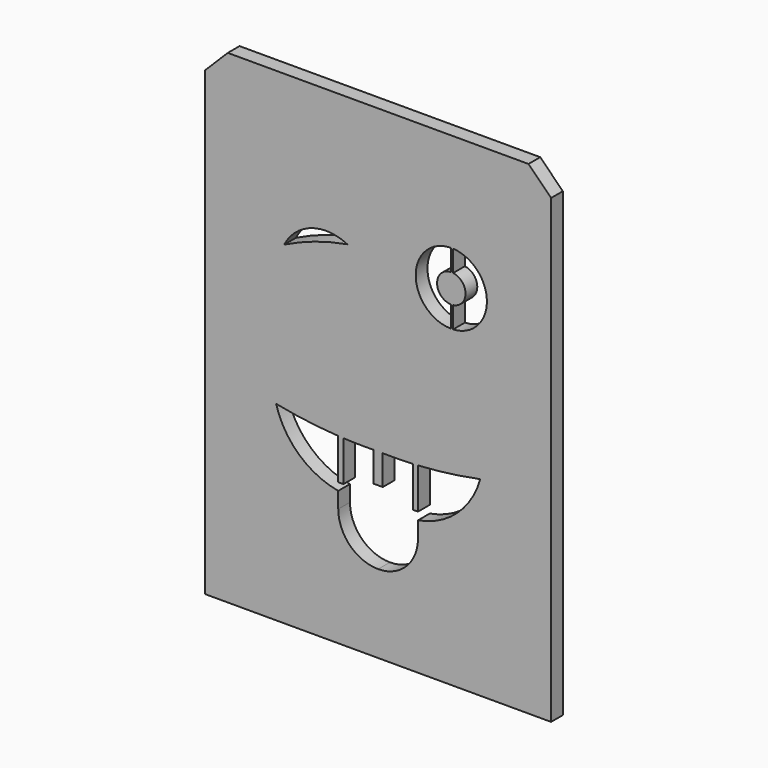
from build123d import *

# Parameters (mm, degrees)
F0_W     = 77.724
F0_H     = 108.712
F1_DEPTH = 3.302
F3_R     = 13.3445871966
F4_DEPTH = 3.302
F5_SIZE  = 5.08
F7_DEPTH = 3.303


with BuildPart() as f1:
    # F0 (on Front) → F1 (new body)
    with BuildSketch(Plane.XZ):
        Rectangle(F0_W, F0_H)
    extrude(amount=F1_DEPTH)

    # F3 (on face) → F4 (join)
    with BuildSketch(Plane.XZ.offset(3.302)):
        with BuildLine():
            add(Edge.make_bspline(
                [(-33.1284857231, -24.3833554431), (-30.3980902484, -23.448268281), (-27.6625298974, -23.0135580616), (-24.9168122419, -22.8877504962)],
                knots=[0.0236239796, 0.0236239796, 0.0236239796, 0.0236239796, 0.1438563975, 0.1438563975, 0.1438563975, 0.1438563975], degree=3))
            ThreePointArc((-33.1284857231, -24.3833554431), (-29.1410849834, -38.4326879001), (-15.8749999992, -44.5395771521))
            ThreePointArc((-15.8749999992, -44.5395771521), (-7.7803065213, -45.3411097626), (9e-10, -47.7145771515))
            ThreePointArc((9e-10, -47.7145771515), (7.780306523, -45.3411097624), (15.8750000008, -44.5395771515))
            ThreePointArc((15.8750000008, -44.5395771515), (28.9710149024, -38.6284104056), (33.2008619827, -24.8968448621))
            add(Edge.make_bspline(
                [(22.7832318895, -28.264905571), (26.870414184, -28.3483991479), (30.7081117423, -27.7740633769), (33.2008619827, -24.8968448621)],
                knots=[0.8224951004, 0.8224951004, 0.8224951004, 0.8224951004, 0.9908039431, 0.9908039431, 0.9908039431, 0.9908039431], degree=3))
            add(Edge.make_bspline(
                [(15.9953683619, -27.7933645546), (16.7598950609, -27.862629463), (19.0104314318, -28.0581684328), (21.3052242348, -28.2347126075), (22.7832318895, -28.264905571)],
                knots=[0.7300371536, 0.7300371536, 0.7300371536, 0.7300371536, 0.7616312241, 0.8224951004, 0.8224951004, 0.8224951004, 0.8224951004], degree=3))
            add(Edge.make_bspline(
                [(12.0445173218, -27.4086319137), (13.3501324037, -27.5450763369), (14.6659309282, -27.6729196282), (15.9953683619, -27.7933645546)],
                knots=[0.6750981435, 0.6750981435, 0.6750981435, 0.6750981435, 0.7300371536, 0.7300371536, 0.7300371536, 0.7300371536], degree=3))
            add(Edge.make_bspline(
                [(6.5035843618, -26.7679947406), (8.3365045469, -27.0014140297), (10.1801283043, -27.2137923413), (12.0445173218, -27.4086319137)],
                knots=[0.5966464709, 0.5966464709, 0.5966464709, 0.5966464709, 0.6750981435, 0.6750981435, 0.6750981435, 0.6750981435], degree=3))
            add(Edge.make_bspline(
                [(-15.7821923495, -23.3437299796), (-10.5480047667, -23.9624284424), (-3.1004870846, -25.4363431139), (4.3262408996, -26.490713729), (6.5035843618, -26.7679947406)],
                knots=[0.2765511336, 0.2765511336, 0.2765511336, 0.2765511336, 0.5034529768, 0.5966464709, 0.5966464709, 0.5966464709, 0.5966464709], degree=3))
            add(Edge.make_bspline(
                [(-24.9168122419, -22.8877504962), (-22.5127229742, -22.777596192), (-19.4725911361, -22.9372512735), (-16.4147628171, -23.2689580365), (-15.7821923495, -23.3437299796)],
                knots=[0.1438563975, 0.1438563975, 0.1438563975, 0.1438563975, 0.2491292266, 0.2765511336, 0.2765511336, 0.2765511336, 0.2765511336], degree=3))
        make_face()
        with BuildLine():
            ThreePointArc((-24.3962783332, -9.4429305632), (-23.5493439512, -16.2082072875), (-24.9168122419, -22.8877504962))
            add(Edge.make_bspline(
                [(-24.9168122419, -22.8877504962), (-22.5127229742, -22.777596192), (-19.4725911361, -22.9372512735), (-16.4147628171, -23.2689580365), (-15.7821923495, -23.3437299796)],
                knots=[0.1438563975, 0.1438563975, 0.1438563975, 0.1438563975, 0.2491292266, 0.2765511336, 0.2765511336, 0.2765511336, 0.2765511336], degree=3))
            ThreePointArc((-15.7821923495, -23.3437299796), (-16.7909764629, -16.1431204561), (-15.7821923495, -8.9425109327))
            add(Edge.make_bspline(
                [(-20.8150930703, 3.0249084812), (-20.084698855, 3.2617064252), (-18.5750809579, 3.7511331524), (-20.1108934357, 5.7423249077), (-21.3989497629, 8.4805039988), (-19.5926222129, 8.6232034417), (-20.0960081308, 6.4882204736), (-17.9845367, 4.4717269755), (-19.4827279307, 7.4877563676), (-17.6531933794, 7.9935220173), (-17.6518746238, 3.7165445405), (-19.7201607312, 2.5442912986), (-19.0033211234, 0.5113026434), (-21.5358089244, 0.646088536), (-20.7796208818, -5.7027505195), (-14.9489180074, 0.0978196974), (-17.977030073, 1.5236381763), (-14.9168721562, 2.6666255778), (-16.1211586732, 6.3598723413), (-13.8328776174, 5.6005762962), (-15.1421128769, 3.3154322822), (-14.4747759607, 0.1624480587), (-13.8084140261, 5.1188240441), (-11.0343102947, 2.7331078221), (-14.5615723999, -0.162479085), (-17.3031216925, -3.3366762112), (-18.0975664008, -8.8898410691), (-13.4356882131, -5.5746333853), (-15.3648709473, -3.8082111356), (-12.0527139611, -3.6659211986), (-13.248535603, -1.079337143), (-9.5910344453, -1.7447413323), (-10.7422685487, 3.0079941618), (-8.9849464366, -1.96339633), (-8.8102943074, 5.4988116301), (-7.4861779197, -0.6957485248), (-9.6724060403, -0.966318494), (-11.0218385517, -3.5291741027), (-13.7004320012, -4.2797101397), (-12.8029593717, -6.9381020727), (-14.7089673153, -8.2196946287), (-15.7821923495, -8.9425109327)],
                knots=[0, 0, 0, 0, 0.0231511603, 0.0478500744, 0.0752755755, 0.0903366321, 0.1142638791, 0.1352244444, 0.1593040946, 0.1744947233, 0.2060790631, 0.2315955315, 0.2516703156, 0.2733460952, 0.3049833457, 0.3431527772, 0.3650886659, 0.3896180862, 0.4183185893, 0.4354180503, 0.4626318971, 0.4841465121, 0.512674348, 0.5346264378, 0.5675595767, 0.6056671213, 0.6368592747, 0.6681518224, 0.6879987795, 0.7121233264, 0.7334743783, 0.7591560932, 0.7848708559, 0.8073025156, 0.8374341523, 0.8673194844, 0.8904493251, 0.9187369989, 0.9444600919, 0.9686867066, 1, 1, 1, 1], degree=3))
            add(Edge.make_bspline(
                [(-25.8914344013, -2.4853385985), (-26.396572956, -2.0003344615), (-27.3138435109, -1.1196261405), (-29.1352849859, -2.0598979002), (-28.7106271057, 0.8204026064), (-32.0312644098, -1.1715068103), (-31.3002695814, 3.7485837155), (-29.4483178555, 3.8301118075), (-30.8071023081, 1.5653871303), (-28.9526334159, 1.3619840648), (-29.4792210737, 5.2085047756), (-26.921055424, 4.4342075194), (-28.8119762327, 2.2854028303), (-27.5906596289, -1.3990701213), (-27.7699356497, 3.0747016102), (-25.2099586785, 2.6066763518), (-26.5953437573, -0.395391095), (-23.7025988652, -2.0340069969), (-23.1772681034, -6.0499515041), (-20.5435134821, -4.1808959475), (-25.0748704565, 2.6489737746), (-20.1368344266, 0.7949418705), (-20.6048167244, 2.3336418411), (-20.8150930703, 3.0249084812)],
                knots=[0, 0, 0, 0, 0.0457250435, 0.0830311605, 0.1245988121, 0.1705511092, 0.2321726775, 0.2625557415, 0.30723362, 0.3358214151, 0.393012377, 0.4286583434, 0.4808472993, 0.5282384525, 0.5813000538, 0.6192860311, 0.6705302416, 0.7286736986, 0.7872738172, 0.8280557864, 0.9074882994, 0.958434574, 1, 1, 1, 1], degree=3))
            ThreePointArc((-25.8914344013, -2.4853385985), (-24.9290967698, -4.9824855111), (-24.3962783332, -7.6050683856))
            add(Edge.make_bspline(
                [(-24.3962783332, -9.4429305632), (-25.4357243907, -10.1342055857), (-27.412273175, -11.4486922391), (-27.4547789496, -7.4214675852), (-30.5466070306, -9.5733915774), (-30.4542370334, -5.4520792207), (-32.3177618611, -5.8417990903), (-32.7140680164, -4.2769830225), (-32.0543630337, -2.7007935171), (-32.1251676799, -4.5533058245), (-30.3843482976, -5.4648837492), (-32.0501040037, -1.6640768267), (-30.4436660674, -1.9005229869), (-30.1720801803, -6.5942041642), (-29.7456686663, -3.178537531), (-28.1334595609, -3.5814958653), (-29.8697325683, -5.6494579394), (-29.5018476184, -7.7306733995), (-27.2359049314, -6.3250302911), (-26.4788550338, -9.3239236743), (-25.0993332141, -8.1853413666), (-24.3962783332, -7.6050683856)],
                knots=[0, 0, 0, 0, 0.0670169121, 0.1274354192, 0.1840138636, 0.2505621343, 0.2960523516, 0.3441354147, 0.3840734056, 0.4287810373, 0.4665753725, 0.5348972739, 0.5667760176, 0.6369485958, 0.6883070256, 0.7231632661, 0.7842390879, 0.8324575559, 0.8851485442, 0.9414679355, 1, 1, 1, 1], degree=3))
        make_face()
        with BuildLine():
            add(Edge.make_bspline(
                [(-20.2924981713, -15.781018883), (-20.5370775999, -16.1379246214), (-20.134132622, -17.1534868603), (-20.8639151565, -18.5661521393), (-21.9358468203, -19.4575377926), (-22.3700864307, -21.8865095148), (-20.237349518, -21.5763362209), (-19.5672362136, -20.438180371), (-19.2965010699, -18.8033454883), (-19.7803037906, -17.8720601229), (-19.908738804, -16.4540465799), (-19.0188083322, -15.0649598827), (-20.0853771822, -15.4787748635), (-20.2924981713, -15.781018883)],
                knots=[0, 0, 0, 0, 0.0904118203, 0.1854248684, 0.2814922978, 0.3865094541, 0.4809925493, 0.5711470892, 0.6690619631, 0.748512495, 0.8439845899, 0.9234351565, 1, 1, 1, 1], degree=3))
        make_face(mode=Mode.SUBTRACT)
        with BuildLine():
            add(Edge.make_bspline(
                [(-22.3910957575, -11.5529615432), (-22.0568118654, -12.2037220004), (-21.1170784891, -12.8832887919), (-21.7129777335, -14.1967346716), (-20.5379115522, -14.568750962), (-20.4867607869, -13.5076873001), (-20.8432701563, -11.8831681267), (-21.6439811905, -11.2404808042), (-22.9718655512, -9.3501247732), (-22.6978835435, -10.9557285785), (-22.3910957575, -11.5529615432)],
                knots=[0, 0, 0, 0, 0.1505340204, 0.2658311351, 0.3614801071, 0.4617187858, 0.6051372816, 0.7298931385, 0.8618479683, 1, 1, 1, 1], degree=3))
        make_face(mode=Mode.SUBTRACT)
        with BuildLine():
            add(Edge.make_bspline(
                [(-18.3790698647, -10.1024601609), (-18.7969421772, -10.2564427963), (-19.1553590595, -11.577398565), (-19.219348267, -12.6506630096), (-19.2408550579, -13.9350019391), (-18.8743899715, -14.8858473731), (-18.2833235222, -14.0155234153), (-18.1315989973, -13.0706647968), (-18.7065283271, -12.3462231403), (-18.4694817034, -11.2210464666), (-17.1590443019, -10.374237249), (-18.0760721444, -9.9908079022), (-18.3790698647, -10.1024601609)],
                knots=[0, 0, 0, 0, 0.1240572212, 0.2333232805, 0.347818092, 0.428679644, 0.5131510602, 0.6107152668, 0.7012679009, 0.8047604962, 0.9100465523, 1, 1, 1, 1], degree=3))
        make_face(mode=Mode.SUBTRACT)
        with BuildLine():
            ThreePointArc((5.4403450859, -12.5461180708), (6.6092683485, -19.609411059), (6.5035843618, -26.7679947406))
            add(Edge.make_bspline(
                [(6.5035843618, -26.7679947406), (8.3365045469, -27.0014140297), (10.1801283043, -27.2137923413), (12.0445173218, -27.4086319137)],
                knots=[0.5966464709, 0.5966464709, 0.5966464709, 0.5966464709, 0.6750981435, 0.6750981435, 0.6750981435, 0.6750981435], degree=3))
            Line((12.0445173218, -27.4086319137), (12.0445173218, -21.4756764472))
            ThreePointArc((12.0445173218, -21.4756764472), (14.0199428419, -19.5002509271), (15.9953683619, -21.4756764472))
            Line((15.9953683619, -21.4756764472), (15.9953683619, -27.7933645546))
            add(Edge.make_bspline(
                [(15.9953683619, -27.7933645546), (16.7598950609, -27.862629463), (19.0104314318, -28.0581684328), (21.3052242348, -28.2347126075), (22.7832318895, -28.264905571)],
                knots=[0.7300371536, 0.7300371536, 0.7300371536, 0.7300371536, 0.7616312241, 0.8224951004, 0.8224951004, 0.8224951004, 0.8224951004], degree=3))
            ThreePointArc((22.7832318895, -28.264905571), (22.4736636829, -20.3696155623), (23.5801553445, -12.5461180708))
            Line((23.5801553445, -12.5461180708), (28.4554600831, -13.4531514135))
            ThreePointArc((28.4554600831, -13.4531514135), (31.673336573, -11.9989868814), (31.424967593, -8.4765393743))
            ThreePointArc((31.424967593, -8.4765393743), (29.2529740879, -8.2440657168), (29.0205004305, -10.4160592219))
            ThreePointArc((29.0205004305, -10.4160592219), (29.058069024, -11.9208265797), (27.614886003, -12.3485636115))
            ThreePointArc((27.614886003, -12.3485636115), (23.4712314741, -5.8636115848), (28.4554600831, 0))
            ThreePointArc((28.4554600831, 0), (23.3706331923, -0.6006945639), (18.2612345592, -0.9328753515))
            Line((18.2612345592, -0.9328753515), (21.109645709, 8.6648291047))
            Line((21.109645709, 8.6648291047), (22.7452469365, 8.179414619))
            ThreePointArc((22.7452469365, 8.179414619), (24.0675287583, 9.9087492795), (21.9295363303, 9.4988517773))
            ThreePointArc((21.9295363303, 9.4988517773), (17.0915933325, 15.0640837031), (15.5871994793, 22.2831070423))
            Line((15.5871994793, 22.2831070423), (14.8853833456, 29.6840668302))
            Line((14.8853833456, 29.6840668302), (17.9889984262, 30.165095753))
            Line((17.9889984262, 30.165095753), (17.720128815, 31.8998516907))
            Line((17.720128815, 31.8998516907), (14.8043116011, 31.4479295364))
            Line((14.8043116011, 31.4479295364), (14.2361351446, 35.1138234881))
            Line((14.2361351446, 35.1138234881), (12.1174789965, 34.7854532301))
            Line((12.1174789965, 34.7854532301), (12.6562453806, 31.3093140721))
            Line((12.6562453806, 31.3093140721), (10.0379107516, 30.7162171018))
            Line((10.0379107516, 30.7162171018), (10.2517836951, 29.4975203391))
            Line((10.2517836951, 29.4975203391), (12.7509497106, 29.9361068755))
            Line((12.7509497106, 29.9361068755), (14.0939988196, 22.2831070423))
            ThreePointArc((14.0939988196, 22.2831070423), (12.6245914015, 15.2177663733), (7.6988285058, 9.9437681912))
            ThreePointArc((7.6988285058, 9.9437681912), (5.5906171254, 10.4864212664), (6.8022884056, 8.6778637491))
            Line((6.8022884056, 8.6778637491), (8.4650181234, 9.060157463))
            Line((8.4650181234, 9.060157463), (10.762639533, -0.9330055424))
            ThreePointArc((10.762639533, -0.9330055424), (5.6515483018, -0.6008483836), (0.5650403473, 0))
            ThreePointArc((0.5650403473, 0), (5.5492689564, -5.8636115848), (1.4056144274, -12.3485636115))
            ThreePointArc((1.4056144274, -12.3485636115), (-0.0375685935, -11.9208265797), (0, -10.4160592219))
            ThreePointArc((0, -10.4160592219), (-0.2324736575, -8.2440657168), (-2.4044671625, -8.4765393743))
            ThreePointArc((-2.4044671625, -8.4765393743), (-2.6528361426, -11.9989868814), (0.5650403473, -13.4531514135))
            Line((0.5650403473, -13.4531514135), (5.4403450859, -12.5461180708))
        make_face()
        Polygon((9.1227404773, -7.4148867279), (8.4774624556, -4.9826856703), (9.749203307, -4.868891682), (10.3401336819, -7.1323132142), align=None, mode=Mode.SUBTRACT)
        Polygon((10.9397291529, -9.5362256838), (9.768018499, -9.8470877856), (9.2899553012, -8.0451578014), (10.461665955, -7.7342956997), align=None, mode=Mode.SUBTRACT)
        Polygon((12.2584053658, -7.3401992658), (12.7159978886, -9.0649705743), (11.5734964264, -9.3680832964), (11.1159039036, -7.6433119879), align=None, mode=Mode.SUBTRACT)
        Polygon((10.332212454, -4.8167246576), (11.5597705233, -4.7068840966), (12.1378842059, -6.8859273354), (10.9000811353, -7.0559568703), align=None, mode=Mode.SUBTRACT)
        Polygon((17.9045965268, -7.6433119879), (17.4470040041, -9.3680832964), (16.3045025419, -9.0649705743), (16.7620950646, -7.3401992658), align=None, mode=Mode.SUBTRACT)
        Polygon((18.5588344754, -7.7342956997), (19.7305451293, -8.0451578014), (19.2524819314, -9.8470877856), (18.0807712776, -9.5362256838), align=None, mode=Mode.SUBTRACT)
        Polygon((18.6803667486, -7.1323132142), (19.2712971234, -4.868891682), (20.5430379748, -4.9826856703), (19.8977599531, -7.4148867279), align=None, mode=Mode.SUBTRACT)
        Polygon((16.8826162245, -6.8859273354), (17.4607299071, -4.7068840966), (18.6882879764, -4.8167246576), (18.1204192951, -7.0559568703), align=None, mode=Mode.SUBTRACT)
        with BuildLine():
            ThreePointArc((14.2767767446, 4.6611620079), (12.1414040207, 5.7303494735), (11.1097303552, 7.8840968947))
            Line((11.1097303552, 7.8840968947), (14.2767767446, 7.8840968947))
            Line((14.2767767446, 7.8840968947), (14.2767767446, 4.6611620079))
        make_face(mode=Mode.SUBTRACT)
        with BuildLine():
            ThreePointArc((11.1459939594, 8.983289175), (12.2280091457, 10.9819830574), (14.2767767446, 11.9658963789))
            Line((14.2767767446, 11.9658963789), (14.2767767446, 8.983289175))
            Line((14.2767767446, 8.983289175), (11.1459939594, 8.983289175))
        make_face(mode=Mode.SUBTRACT)
        with BuildLine():
            ThreePointArc((18.430607267, 7.8840968947), (17.3673699452, 5.6986165643), (15.1747141111, 4.6502567644))
            Line((15.1747141111, 4.6502567644), (15.1747141111, 7.8840968947))
            Line((15.1747141111, 7.8840968947), (18.430607267, 7.8840968947))
        make_face(mode=Mode.SUBTRACT)
        with BuildLine():
            ThreePointArc((15.1747141111, 11.9768016224), (17.2797356479, 11.0126579566), (18.3943436628, 8.983289175))
            Line((18.3943436628, 8.983289175), (15.1747141111, 8.983289175))
            Line((15.1747141111, 8.983289175), (15.1747141111, 11.9768016224))
        make_face(mode=Mode.SUBTRACT)
        with BuildLine():
            ThreePointArc((1.5084841621, 28.7364097307), (5.1963193944, 39.8156504287), (15.8749999992, 44.5395771521))
            ThreePointArc((15.8749999992, 44.5395771521), (7.7803065213, 45.3411097626), (-9e-10, 47.7145771515))
            ThreePointArc((-9e-10, 47.7145771515), (-7.780306523, 45.3411097624), (-15.8750000008, 44.5395771515))
            ThreePointArc((-15.8750000008, 44.5395771515), (-30.2008361805, 37.0625327748), (-32.2586794783, 21.0343995142))
            ThreePointArc((-32.2586794783, 21.0343995142), (-31.4618060576, 11.8664205536), (-35.4362714152, 3.5663922047))
            ThreePointArc((-35.4362714152, 3.5663922047), (-26.8661908779, 8.4248419398), (-17.0921185192, 9.6570447531))
            ThreePointArc((-17.0921185192, 9.6570447531), (-3.3712650978, 14.8871009528), (1.5084841621, 28.7364097307))
        make_face()
        with Locations((-15.8750000008, 27.0770771515)):
            Circle(F3_R, mode=Mode.SUBTRACT)
    extrude(amount=-F4_DEPTH)

    # F5
    f5_edges = [f1.edges().sort_by_distance(p)[0] for p in [
        (-38.862, -1.651, 54.356),
        (38.862, -1.651, 54.356),
    ]]
    chamfer(f5_edges, length=F5_SIZE)

    # F6 (on face) → F7 (cut, through all)
    with BuildSketch(Plane.XZ.offset(3.302)):
        with BuildLine():
            ThreePointArc((-21.1133435369, 20.5527991056), (-14.1814466186, 23.3995616628), (-6.9132223725, 25.2238884568))
            ThreePointArc((-6.9132223725, 25.2238884568), (-14.9756572058, 25.8139634695), (-21.1133435369, 20.5527991056))
        make_face()
        with BuildLine():
            Line((16.3396615535, 27.2994334483), (16.3396615535, 32.0994301496))
            ThreePointArc((16.3396615535, 32.0994301496), (8.4449732872, 24.1028293967), (16.3396615535, 16.1062286438))
            Line((16.3396615535, 16.1062286438), (16.3396615535, 20.9062253451))
            ThreePointArc((16.3396615535, 20.9062253451), (13.2439826058, 24.1028293967), (16.3396615535, 27.2994334483))
        make_face()
        with BuildLine():
            ThreePointArc((16.8452393264, 16.1157317246), (24.4394903807, 24.1028293967), (16.8452393264, 32.0899270689))
            Line((16.8452393264, 32.0899270689), (16.8452393264, 27.2755857829))
            ThreePointArc((16.8452393264, 27.2755857829), (19.640481062, 24.1028293967), (16.8452393264, 20.9300730105))
            Line((16.8452393264, 20.9300730105), (16.8452393264, 16.1157317246))
        make_face()
        with BuildLine():
            ThreePointArc((7.7858120203, -13.4056184413), (4.4132785994, -13.5141144888), (1.0390022352, -13.5106380834))
            Line((1.0390022352, -13.5106380834), (1.0390022352, -20.207516849))
            Line((1.0390022352, -20.207516849), (0, -20.207516849))
            Line((8e-10, -20.207516849), (-1.0390022345, -20.2075168491))
            Line((-1.0390022345, -20.2075168491), (-1.0390022347, -13.5106380835))
            ThreePointArc((-1.0390022347, -13.5106380835), (-4.4132785989, -13.514114489), (-7.7858120198, -13.4056184416))
            Line((-7.7858120198, -13.4056184416), (-7.7858120195, -22.4921759221))
            Line((-7.7858120195, -22.4921759221), (-8.9584118489, -22.4921759221))
            Line((-8.9584118489, -22.4921759221), (-8.9584118492, -13.3416137406))
            ThreePointArc((-8.9584118492, -13.3416137406), (-15.9722408444, -12.673568077), (-22.9229629035, -11.5213766703))
            ThreePointArc((-22.9229629035, -11.5213766703), (-17.7771825477, -19.8838721478), (-8.9584118488, -24.2012404948))
            Line((-8.9584118488, -24.2012404948), (-8.9584118487, -27.8103052275))
            ThreePointArc((-8.9584118487, -27.8103052275), (-6.3345537663, -34.144858995), (1.4e-09, -36.7687170769))
            ThreePointArc((0, -36.7687170769), (6.3345537676, -34.1448589948), (8.9584118497, -27.8103052271))
            Line((8.9584118497, -27.8103052271), (8.9584118497, -24.2012404944))
            ThreePointArc((8.9584118497, -24.2012404944), (17.7771825485, -19.8838721472), (22.922962904, -11.5213766694))
            ThreePointArc((22.922962904, -11.5213766694), (15.9722408449, -12.6735680764), (8.9584118497, -13.3416137402))
            Line((8.9584118497, -13.3416137402), (8.9584118497, -22.4921759218))
            Line((8.9584118497, -22.4921759218), (7.7858120203, -22.4921759218))
            Line((7.7858120203, -22.4921759218), (7.7858120203, -13.4056184413))
        make_face()
    extrude(amount=-F7_DEPTH, mode=Mode.SUBTRACT)


solid = f1.part
